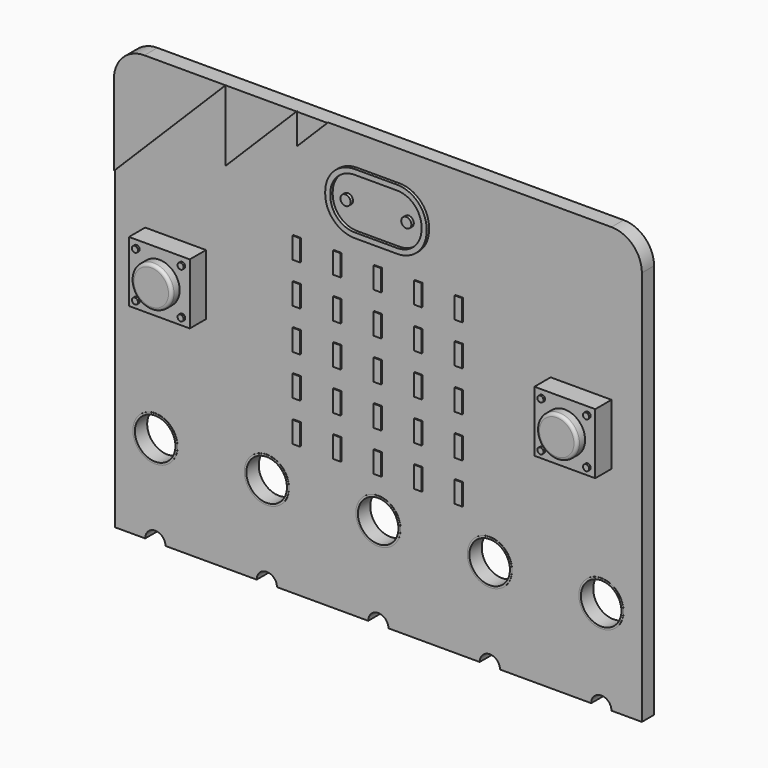
from build123d import *

# Parameters (mm, degrees)
CYLINDER182_R          = 2
CYLINDER182_DEPTH      = 1
FILLET155_R            = 0.3
CYLINDER184_R          = 0.3
CYLINDER184_DEPTH      = 0.2
CYLINDER185_R          = 0.3
CYLINDER185_DEPTH      = 0.2
CYLINDER186_R          = 0.3
CYLINDER186_DEPTH      = 0.2
CYLINDER183_R          = 0.3
CYLINDER183_DEPTH      = 0.2
BOX199_W               = 6
BOX199_H               = 3.5
BOX199_DEPTH           = 6
CYLINDER177_R          = 2
CYLINDER177_DEPTH      = 1
FILLET154_R            = 0.3
CYLINDER179_R          = 0.3
CYLINDER179_DEPTH      = 0.2
CYLINDER180_R          = 0.3
CYLINDER180_DEPTH      = 0.2
CYLINDER181_R          = 0.3
CYLINDER181_DEPTH      = 0.2
CYLINDER178_R          = 0.3
CYLINDER178_DEPTH      = 0.2
BOX196_W               = 6
BOX196_H               = 3.5
BOX196_DEPTH           = 6
BOX201_W               = 9
BOX201_H               = 1
BOX201_DEPTH           = 5
FILLET158_R            = 2.4
FILLET159_R            = 2.4
BOX200_W               = 10
BOX200_H               = 1
BOX200_DEPTH           = 6
FILLET156_R            = 2.9
FILLET157_R            = 2.9
CYLINDER188_R          = 0.5
CYLINDER188_DEPTH      = 1
CYLINDER187_R          = 0.5
CYLINDER187_DEPTH      = 1
CYLINDER173_R          = 1
CYLINDER173_DEPTH      = 10
CYLINDER174_R          = 1
CYLINDER174_DEPTH      = 10
CYLINDER175_R          = 1
CYLINDER175_DEPTH      = 10
CYLINDER176_R          = 1
CYLINDER176_DEPTH      = 10
CYLINDER172_R          = 1
CYLINDER172_DEPTH      = 10
CYLINDER168_R          = 2
CYLINDER168_DEPTH      = 10
CYLINDER169_R          = 2
CYLINDER169_DEPTH      = 10
CYLINDER170_R          = 2
CYLINDER170_DEPTH      = 10
CYLINDER171_R          = 2
CYLINDER171_DEPTH      = 10
CYLINDER167_R          = 2
CYLINDER167_DEPTH      = 10
BOX194_W               = 52
BOX194_H               = 1.5
BOX194_DEPTH           = 8
BOX190_W               = 52
BOX190_H               = 1.5
BOX190_DEPTH           = 8
BOX190_PLACEMENT_ANGLE = 45
BOX189_W               = 11
BOX189_H               = 0.2
BOX189_DEPTH           = 11
BOX193_W               = 52
BOX193_H               = 1.5
BOX193_DEPTH           = 8
BOX192_W               = 52
BOX192_H               = 1.5
BOX192_DEPTH           = 8
BOX192_PLACEMENT_ANGLE = 45
BOX191_W               = 11
BOX191_H               = 0.2
BOX191_DEPTH           = 11
BOX188_W               = 52
BOX188_H               = 1.5
BOX188_DEPTH           = 8
BOX188_PLACEMENT_ANGLE = 45
BOX187_W               = 11
BOX187_H               = 0.2
BOX187_DEPTH           = 11
FILLET153_R            = 3
BOX004_W               = 52
BOX004_H               = 1.5
BOX004_DEPTH           = 34
FILLET014_R            = 3
BOX186_W               = 52
BOX186_H               = 1.5
BOX186_DEPTH           = 8
BOX195_W               = 0.75
BOX195_H               = 0.1
BOX195_DEPTH           = 2.1
ARRAY_X_COUNT          = 5
ARRAY_X_PITCH          = 4
ARRAY_Z_COUNT          = 5
ARRAY_Z_PITCH          = 4
TUBE015_R              = 2.2
TUBE015_R_2            = 2
TUBE015_DEPTH          = 0.5
TUBE016_R              = 2.2
TUBE016_R_2            = 2
TUBE016_DEPTH          = 0.5
TUBE017_R              = 2.2
TUBE017_R_2            = 2
TUBE017_DEPTH          = 0.5
TUBE018_R              = 2.2
TUBE018_R_2            = 2
TUBE018_DEPTH          = 0.5
TUBE014_R              = 2.2
TUBE014_R_2            = 2
TUBE014_DEPTH          = 0.5


with BuildPart() as fillet155:
    # Cylinder182 → Cylinder182 (new body)
    with BuildSketch(Plane(origin=(3, 0, 3), x_dir=(1, 0, 0), z_dir=(0, -1, 0))):
        Circle(CYLINDER182_R)
    extrude(amount=CYLINDER182_DEPTH)

    # Fillet155
    fillet155_edges = [fillet155.edges().sort_by_distance(p)[0] for p in [
        (1, -1, 3),
    ]]
    fillet(fillet155_edges, radius=FILLET155_R)


with BuildPart() as cilindro184:
    # Cylinder184 → Cylinder184 (new body)
    with BuildSketch(Plane(origin=(0.75, 0, 5.25), x_dir=(1, 0, 0), z_dir=(0, -1, 0))):
        Circle(CYLINDER184_R)
    extrude(amount=CYLINDER184_DEPTH)


with BuildPart() as cilindro185:
    # Cylinder185 → Cylinder185 (new body)
    with BuildSketch(Plane(origin=(5.25, 0, 0.75), x_dir=(1, 0, 0), z_dir=(0, -1, 0))):
        Circle(CYLINDER185_R)
    extrude(amount=CYLINDER185_DEPTH)


with BuildPart() as cilindro186:
    # Cylinder186 → Cylinder186 (new body)
    with BuildSketch(Plane(origin=(5.25, 0, 5.25), x_dir=(1, 0, 0), z_dir=(0, -1, 0))):
        Circle(CYLINDER186_R)
    extrude(amount=CYLINDER186_DEPTH)


with BuildPart() as cilindro183:
    # Cylinder183 → Cylinder183 (new body)
    with BuildSketch(Plane(origin=(0.75, 0, 0.75), x_dir=(1, 0, 0), z_dir=(0, -1, 0))):
        Circle(CYLINDER183_R)
    extrude(amount=CYLINDER183_DEPTH)


with BuildPart() as obj1:
    # Box199 → Box199 (new body)
    with BuildSketch(Plane.XY):
        with Locations((3, 1.75)):
            Rectangle(BOX199_W, BOX199_H)
    extrude(amount=BOX199_DEPTH)

    # Fusion124: union Cilindro183
    add(cilindro183.part)

    # Fusion125: union Cilindro186
    add(cilindro186.part)

    # Fusion126: union Cilindro185
    add(cilindro185.part)

    # Fusion127: union Cilindro184
    add(cilindro184.part)

    # Fusion128: union Fillet155
    add(fillet155.part)


with BuildPart() as obj1_1:
    # Fusion128 placement: moved
    add(obj1.part.moved(Location((17, -27, 82))))


with BuildPart() as fillet154:
    # Cylinder177 → Cylinder177 (new body)
    with BuildSketch(Plane(origin=(3, 0, 3), x_dir=(1, 0, 0), z_dir=(0, -1, 0))):
        Circle(CYLINDER177_R)
    extrude(amount=CYLINDER177_DEPTH)

    # Fillet154
    fillet154_edges = [fillet154.edges().sort_by_distance(p)[0] for p in [
        (1, -1, 3),
    ]]
    fillet(fillet154_edges, radius=FILLET154_R)


with BuildPart() as cilindro179:
    # Cylinder179 → Cylinder179 (new body)
    with BuildSketch(Plane(origin=(0.75, 0, 5.25), x_dir=(1, 0, 0), z_dir=(0, -1, 0))):
        Circle(CYLINDER179_R)
    extrude(amount=CYLINDER179_DEPTH)


with BuildPart() as cilindro180:
    # Cylinder180 → Cylinder180 (new body)
    with BuildSketch(Plane(origin=(5.25, 0, 0.75), x_dir=(1, 0, 0), z_dir=(0, -1, 0))):
        Circle(CYLINDER180_R)
    extrude(amount=CYLINDER180_DEPTH)


with BuildPart() as cilindro181:
    # Cylinder181 → Cylinder181 (new body)
    with BuildSketch(Plane(origin=(5.25, 0, 5.25), x_dir=(1, 0, 0), z_dir=(0, -1, 0))):
        Circle(CYLINDER181_R)
    extrude(amount=CYLINDER181_DEPTH)


with BuildPart() as cilindro178:
    # Cylinder178 → Cylinder178 (new body)
    with BuildSketch(Plane(origin=(0.75, 0, 0.75), x_dir=(1, 0, 0), z_dir=(0, -1, 0))):
        Circle(CYLINDER178_R)
    extrude(amount=CYLINDER178_DEPTH)


with BuildPart() as obj2:
    # Box196 → Box196 (new body)
    with BuildSketch(Plane.XY):
        with Locations((3, 1.75)):
            Rectangle(BOX196_W, BOX196_H)
    extrude(amount=BOX196_DEPTH)

    # Fusion119: union Cilindro178
    add(cilindro178.part)

    # Fusion120: union Cilindro181
    add(cilindro181.part)

    # Fusion121: union Cilindro180
    add(cilindro180.part)

    # Fusion122: union Cilindro179
    add(cilindro179.part)

    # Fusion123: union Fillet154
    add(fillet154.part)


with BuildPart() as obj2_1:
    # Fusion123 placement: moved
    add(obj2.part.moved(Location((-23, -27, 82))))


with BuildPart() as fillet159:
    # Box201 → Box201 (new body)
    with BuildSketch(Plane(origin=(0.5, 0, 0.5), x_dir=(1, 0, 0), z_dir=(0, 0, 1))):
        with Locations((4.5, 0.5)):
            Rectangle(BOX201_W, BOX201_H)
    extrude(amount=BOX201_DEPTH)

    # Fillet158
    fillet158_edges = [fillet159.edges().sort_by_distance(p)[0] for p in [
        (9.5, 0.5, 5.5),
        (9.5, 0.5, 0.5),
    ]]
    fillet(fillet158_edges, radius=FILLET158_R)

    # Fillet159
    fillet159_edges = [fillet159.edges().sort_by_distance(p)[0] for p in [
        (0.5, 0.5, 0.5),
        (0.5, 0.5, 5.5),
    ]]
    fillet(fillet159_edges, radius=FILLET159_R)


with BuildPart() as cut257:
    # Box200 → Box200 (new body)
    with BuildSketch(Plane.XY):
        with Locations((5, 0.5)):
            Rectangle(BOX200_W, BOX200_H)
    extrude(amount=BOX200_DEPTH)

    # Fillet156
    fillet156_edges = [cut257.edges().sort_by_distance(p)[0] for p in [
        (10, 0.5, 6),
        (10, 0.5, 0),
    ]]
    fillet(fillet156_edges, radius=FILLET156_R)

    # Fillet157
    fillet157_edges = [cut257.edges().sort_by_distance(p)[0] for p in [
        (0, 0.5, 0),
        (0, 0.5, 6),
    ]]
    fillet(fillet157_edges, radius=FILLET157_R)

    # Cut257: cut Fillet159
    add(fillet159.part, mode=Mode.SUBTRACT)


with BuildPart() as cut257_1:
    # Cut257 placement: moved
    add(cut257.part.moved(Location((-5, -25.3, 94))))


with BuildPart() as cilindro188:
    # Cylinder188 → Cylinder188 (new body)
    with BuildSketch(Plane(origin=(3, -24.3, 97), x_dir=(1, 0, 0), z_dir=(0, -1, 0))):
        Circle(CYLINDER188_R)
    extrude(amount=CYLINDER188_DEPTH)


with BuildPart() as cilindro187:
    # Cylinder187 → Cylinder187 (new body)
    with BuildSketch(Plane(origin=(-3, -24.3, 97), x_dir=(1, 0, 0), z_dir=(0, -1, 0))):
        Circle(CYLINDER187_R)
    extrude(amount=CYLINDER187_DEPTH)


with BuildPart() as cilindro173:
    # Cylinder173 → Cylinder173 (new body)
    with BuildSketch(Plane(origin=(-11, -16, 61), x_dir=(1, 0, 0), z_dir=(0, -1, 0))):
        Circle(CYLINDER173_R)
    extrude(amount=CYLINDER173_DEPTH)


with BuildPart() as cilindro174:
    # Cylinder174 → Cylinder174 (new body)
    with BuildSketch(Plane(origin=(-22, -16, 61), x_dir=(1, 0, 0), z_dir=(0, -1, 0))):
        Circle(CYLINDER174_R)
    extrude(amount=CYLINDER174_DEPTH)


with BuildPart() as cilindro175:
    # Cylinder175 → Cylinder175 (new body)
    with BuildSketch(Plane(origin=(11, -16, 61), x_dir=(1, 0, 0), z_dir=(0, -1, 0))):
        Circle(CYLINDER175_R)
    extrude(amount=CYLINDER175_DEPTH)


with BuildPart() as cilindro176:
    # Cylinder176 → Cylinder176 (new body)
    with BuildSketch(Plane(origin=(22, -16, 61), x_dir=(1, 0, 0), z_dir=(0, -1, 0))):
        Circle(CYLINDER176_R)
    extrude(amount=CYLINDER176_DEPTH)


with BuildPart() as cilindro172:
    # Cylinder172 → Cylinder172 (new body)
    with BuildSketch(Plane(origin=(0, -16, 61), x_dir=(1, 0, 0), z_dir=(0, -1, 0))):
        Circle(CYLINDER172_R)
    extrude(amount=CYLINDER172_DEPTH)


with BuildPart() as cilindro168:
    # Cylinder168 → Cylinder168 (new body)
    with BuildSketch(Plane(origin=(-11, -15, 70), x_dir=(1, 0, 0), z_dir=(0, -1, 0))):
        Circle(CYLINDER168_R)
    extrude(amount=CYLINDER168_DEPTH)


with BuildPart() as cilindro169:
    # Cylinder169 → Cylinder169 (new body)
    with BuildSketch(Plane(origin=(-22, -15, 70), x_dir=(1, 0, 0), z_dir=(0, -1, 0))):
        Circle(CYLINDER169_R)
    extrude(amount=CYLINDER169_DEPTH)


with BuildPart() as cilindro170:
    # Cylinder170 → Cylinder170 (new body)
    with BuildSketch(Plane(origin=(11, -15, 70), x_dir=(1, 0, 0), z_dir=(0, -1, 0))):
        Circle(CYLINDER170_R)
    extrude(amount=CYLINDER170_DEPTH)


with BuildPart() as cilindro171:
    # Cylinder171 → Cylinder171 (new body)
    with BuildSketch(Plane(origin=(22, -15, 70), x_dir=(1, 0, 0), z_dir=(0, -1, 0))):
        Circle(CYLINDER171_R)
    extrude(amount=CYLINDER171_DEPTH)


with BuildPart() as cilindro167:
    # Cylinder167 → Cylinder167 (new body)
    with BuildSketch(Plane(origin=(0, -15, 70), x_dir=(1, 0, 0), z_dir=(0, -1, 0))):
        Circle(CYLINDER167_R)
    extrude(amount=CYLINDER167_DEPTH)


with BuildPart() as cubo182:
    # Box194 → Box194 (new body)
    with BuildSketch(Plane(origin=(-26, -26, 103), x_dir=(1, 0, 0), z_dir=(0, 0, 1))):
        with Locations((26, 0.75)):
            Rectangle(BOX194_W, BOX194_H)
    extrude(amount=BOX194_DEPTH)


with BuildPart() as cubo178:
    # Box190 → Box190 (new body)
    with BuildSketch(Plane.XY):
        with Locations((26, 0.75)):
            Rectangle(BOX190_W, BOX190_H)
    extrude(amount=BOX190_DEPTH)


with BuildPart() as cubo178_1:
    # Box190 placement: moved
    add(cubo178.part.moved(Location((-61, -25, 44.685))).rotate(Axis((-61, -25, 44.685), (0, -1, 0)), BOX190_PLACEMENT_ANGLE))


with BuildPart() as cut244:
    # Box189 → Box189 (new body)
    with BuildSketch(Plane(origin=(-56, -25, 61), x_dir=(1, 0, 0), z_dir=(0, 0, 1))):
        with Locations((5.5, 0.1)):
            Rectangle(BOX189_W, BOX189_H)
    extrude(amount=BOX189_DEPTH)

    # Cut241: cut Cubo178
    add(cubo178_1.part, mode=Mode.SUBTRACT)


with BuildPart() as cut244_1:
    # Cut241 placement: moved
    add(cut244.part.moved(Location((41, -0.1, 35))))

    # Cut244: cut Cubo182
    add(cubo182.part, mode=Mode.SUBTRACT)


with BuildPart() as cubo181:
    # Box193 → Box193 (new body)
    with BuildSketch(Plane(origin=(-26, -26, 103), x_dir=(1, 0, 0), z_dir=(0, 0, 1))):
        with Locations((26, 0.75)):
            Rectangle(BOX193_W, BOX193_H)
    extrude(amount=BOX193_DEPTH)


with BuildPart() as cubo180:
    # Box192 → Box192 (new body)
    with BuildSketch(Plane.XY):
        with Locations((26, 0.75)):
            Rectangle(BOX192_W, BOX192_H)
    extrude(amount=BOX192_DEPTH)


with BuildPart() as cubo180_1:
    # Box192 placement: moved
    add(cubo180.part.moved(Location((-61, -25, 44.685))).rotate(Axis((-61, -25, 44.685), (0, -1, 0)), BOX192_PLACEMENT_ANGLE))


with BuildPart() as cut243:
    # Box191 → Box191 (new body)
    with BuildSketch(Plane(origin=(-56, -25, 61), x_dir=(1, 0, 0), z_dir=(0, 0, 1))):
        with Locations((5.5, 0.1)):
            Rectangle(BOX191_W, BOX191_H)
    extrude(amount=BOX191_DEPTH)

    # Cut242: cut Cubo180
    add(cubo180_1.part, mode=Mode.SUBTRACT)


with BuildPart() as cut243_1:
    # Cut242 placement: moved
    add(cut243.part.moved(Location((48.05, -0.1, 39))))

    # Cut243: cut Cubo181
    add(cubo181.part, mode=Mode.SUBTRACT)


with BuildPart() as cubo176:
    # Box188 → Box188 (new body)
    with BuildSketch(Plane.XY):
        with Locations((26, 0.75)):
            Rectangle(BOX188_W, BOX188_H)
    extrude(amount=BOX188_DEPTH)


with BuildPart() as cubo176_1:
    # Box188 placement: moved
    add(cubo176.part.moved(Location((-61, -25, 44.685))).rotate(Axis((-61, -25, 44.685), (0, -1, 0)), BOX188_PLACEMENT_ANGLE))


with BuildPart() as fillet153:
    # Box187 → Box187 (new body)
    with BuildSketch(Plane(origin=(-56, -25, 61), x_dir=(1, 0, 0), z_dir=(0, 0, 1))):
        with Locations((5.5, 0.1)):
            Rectangle(BOX187_W, BOX187_H)
    extrude(amount=BOX187_DEPTH)

    # Cut240: cut Cubo176
    add(cubo176_1.part, mode=Mode.SUBTRACT)

    # Fillet153
    fillet153_edges = [fillet153.edges().sort_by_distance(p)[0] for p in [
        (-56, -24.9, 72),
    ]]
    fillet(fillet153_edges, radius=FILLET153_R)


with BuildPart() as fillet153_1:
    # Fillet153 placement: moved
    add(fillet153.part.moved(Location((30, -0.1, 31))))


with BuildPart() as obj3:
    # Box004 → Box004 (new body)
    with BuildSketch(Plane(origin=(-26, -25, 69), x_dir=(1, 0, 0), z_dir=(0, 0, 1))):
        with Locations((26, 0.75)):
            Rectangle(BOX004_W, BOX004_H)
    extrude(amount=BOX004_DEPTH)

    # Fillet014
    fillet014_edges = [obj3.edges().sort_by_distance(p)[0] for p in [
        (-26, -24.25, 103),
        (26, -24.25, 103),
    ]]
    fillet(fillet014_edges, radius=FILLET014_R)

    # Fusion114: union Fillet153
    add(fillet153_1.part)

    # Fusion115: union Cut243
    add(cut243_1.part)

    # Fusion116: union Cut244
    add(cut244_1.part)


with BuildPart() as fusion117:
    # Box186 → Box186 (new body)
    with BuildSketch(Plane(origin=(-26, -25, 61), x_dir=(1, 0, 0), z_dir=(0, 0, 1))):
        with Locations((26, 0.75)):
            Rectangle(BOX186_W, BOX186_H)
    extrude(amount=BOX186_DEPTH)

    # Fusion117: union obj3
    add(obj3.part)


with BuildPart() as obj4:
    # Box195 → Box195 (new body)
    with BuildSketch(Plane.XY):
        with Locations((0.375, 0.05)):
            Rectangle(BOX195_W, BOX195_H)
    extrude(amount=BOX195_DEPTH)

    # Array X: obj4 ×5


with BuildPart() as obj4_1:
    add(obj4.part)
    with Locations(*[(i * ARRAY_X_PITCH, 0, 0) for i in range(1, ARRAY_X_COUNT)]):
        add(obj4.part)

    # Array Z: obj4 ×5


with BuildPart() as obj4_2:
    add(obj4_1.part)
    with Locations(*[(0, 0, i * ARRAY_Z_PITCH) for i in range(1, ARRAY_Z_COUNT)]):
        add(obj4_1.part)


with BuildPart() as obj4_3:
    # Array placement: moved
    add(obj4_2.part.moved(Location((-8.4, -25.1, 74))))

    # Fusion118: union Fusion117
    add(fusion117.part)

    # Cut245: cut Cilindro167
    add(cilindro167.part, mode=Mode.SUBTRACT)

    # Cut246: cut Cilindro171
    add(cilindro171.part, mode=Mode.SUBTRACT)

    # Cut247: cut Cilindro170
    add(cilindro170.part, mode=Mode.SUBTRACT)

    # Cut248: cut Cilindro169
    add(cilindro169.part, mode=Mode.SUBTRACT)

    # Cut249: cut Cilindro168
    add(cilindro168.part, mode=Mode.SUBTRACT)

    # Cut250: cut Cilindro172
    add(cilindro172.part, mode=Mode.SUBTRACT)

    # Cut251: cut Cilindro176
    add(cilindro176.part, mode=Mode.SUBTRACT)

    # Cut252: cut Cilindro175
    add(cilindro175.part, mode=Mode.SUBTRACT)

    # Cut253: cut Cilindro174
    add(cilindro174.part, mode=Mode.SUBTRACT)

    # Cut254: cut Cilindro173
    add(cilindro173.part, mode=Mode.SUBTRACT)

    # Fusion129: union Cilindro187
    add(cilindro187.part)

    # Fusion130: union Cilindro188
    add(cilindro188.part)

    # Fusion131: union Cut257
    add(cut257_1.part)

    # Fusion132: union obj2
    add(obj2_1.part)

    # Fusion133: union obj1
    add(obj1_1.part)


with BuildPart() as tube015:
    # Tube015 → Tube015 (new body)
    with BuildSketch(Plane(origin=(11, -24.5, 70), x_dir=(1, 0, 0), z_dir=(0, -1, 0))):
        Circle(TUBE015_R)
        Circle(TUBE015_R_2, mode=Mode.SUBTRACT)
    extrude(amount=TUBE015_DEPTH)


with BuildPart() as tube016:
    # Tube016 → Tube016 (new body)
    with BuildSketch(Plane(origin=(22, -24.5, 70), x_dir=(1, 0, 0), z_dir=(0, -1, 0))):
        Circle(TUBE016_R)
        Circle(TUBE016_R_2, mode=Mode.SUBTRACT)
    extrude(amount=TUBE016_DEPTH)


with BuildPart() as tube017:
    # Tube017 → Tube017 (new body)
    with BuildSketch(Plane(origin=(-11, -24.5, 70), x_dir=(1, 0, 0), z_dir=(0, -1, 0))):
        Circle(TUBE017_R)
        Circle(TUBE017_R_2, mode=Mode.SUBTRACT)
    extrude(amount=TUBE017_DEPTH)


with BuildPart() as tube018:
    # Tube018 → Tube018 (new body)
    with BuildSketch(Plane(origin=(-22, -24.5, 70), x_dir=(1, 0, 0), z_dir=(0, -1, 0))):
        Circle(TUBE018_R)
        Circle(TUBE018_R_2, mode=Mode.SUBTRACT)
    extrude(amount=TUBE018_DEPTH)


with BuildPart() as obj5:
    # Tube014 → Tube014 (new body)
    with BuildSketch(Plane(origin=(0, -24.5, 70), x_dir=(1, 0, 0), z_dir=(0, -1, 0))):
        Circle(TUBE014_R)
        Circle(TUBE014_R_2, mode=Mode.SUBTRACT)
    extrude(amount=TUBE014_DEPTH)

    # Fusion226: union Tube015, Tube016, Tube017, Tube018
    add(tube015.part)
    add(tube016.part)
    add(tube017.part)
    add(tube018.part)


with BuildPart() as obj5_1:
    # Fusion226 placement: moved
    add(obj5.part.moved(Location((0, -0.02, 0))))

    # Fusion227: union obj4
    add(obj4_3.part)


with BuildPart() as obj5_2:
    # Fusion227 placement: moved
    add(obj5_1.part.moved(Location((0, 24, -80))))


solid = obj5_2.part
